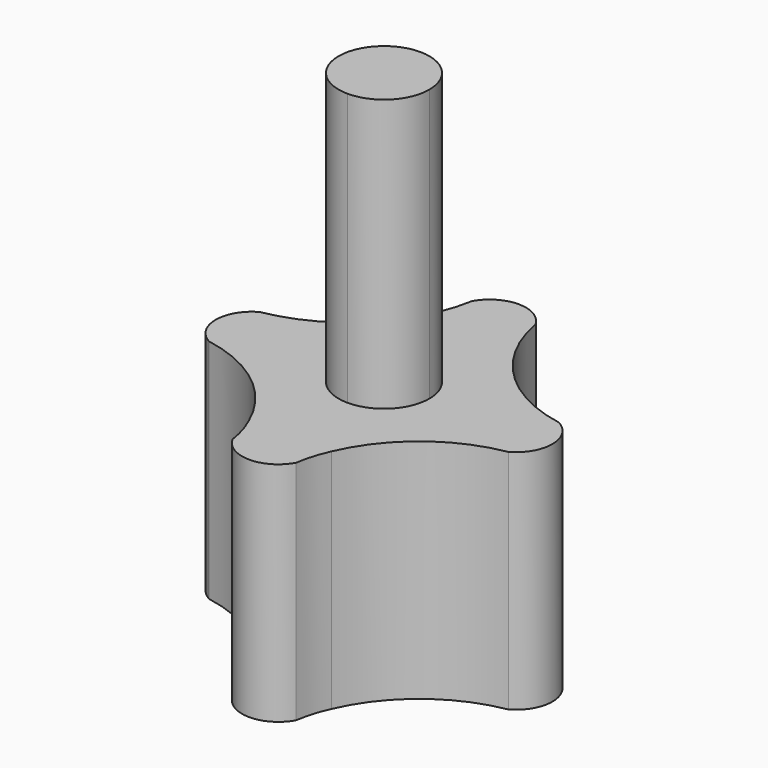
from build123d import *

# Parameters (mm, degrees)
F1_DEPTH = 25
F3_DEPTH = 30


with BuildPart() as f1:
    # F0 (on Top) → F1 (new body)
    with BuildSketch(Plane.XY):
        with BuildLine():
            ThreePointArc((17.2607812761, -2.3833950431), (8.7072023659, 2.0630260466), (4.2607812761, 10.6166049569))
            ThreePointArc((4.2607812761, 10.6166049569), (2.7922872868, 12.1258328499), (0.7607812863, 12.6801132838))
            ThreePointArc((0.7607812863, 12.6801132838), (-1.2707247259, 12.1258328551), (-2.7392187239, 10.6166049569))
            ThreePointArc((-2.7392187239, 10.6166049569), (-7.1856398136, 2.0630260466), (-15.7392187239, -2.3833950431))
            ThreePointArc((-15.7392187239, -2.3833950431), (-17.8027270508, -5.8833950431), (-15.7392187239, -9.3833950431))
            ThreePointArc((-15.7392187239, -9.3833950431), (-8.5748084454, -12.5934844557), (-3.7997873018, -18.8250670599))
            ThreePointArc((-3.7997873018, -18.8250670599), (-3.139452436, -20.565469151), (-2.7392187239, -22.3833950431))
            ThreePointArc((-2.7392187239, -22.3833950431), (0.7607812761, -24.44690337), (4.2607812761, -22.3833950431))
            ThreePointArc((4.2607812761, -22.3833950431), (4.6610149882, -20.565469151), (5.321349854, -18.8250670599))
            ThreePointArc((5.321349854, -18.8250670599), (10.0963709976, -12.5934844557), (17.2607812761, -9.3833950431))
            ThreePointArc((17.2607812761, -9.3833950431), (19.324289603, -5.8833950431), (17.2607812761, -2.3833950431))
        make_face()
    extrude(amount=F1_DEPTH)

    # F2 (on face) → F3 (join)
    with BuildSketch(Plane.XY.offset(25)):
        with BuildLine():
            Line((-4.2392187239, -5.8833950431), (0.7607812761, -5.8833950431))
            Line((0.7607812761, -5.8833950431), (0.7607812761, -0.8833950431))
            ThreePointArc((0.7607812761, -0.8833950431), (-2.7747526298, -2.3478611372), (-4.2392187239, -5.8833950431))
        make_face()
        with BuildLine():
            Line((0.7607812761, -10.8833950431), (0.7607812761, -5.8833950431))
            Line((0.7607812761, -5.8833950431), (-4.2392187239, -5.8833950431))
            ThreePointArc((-4.2392187239, -5.8833950431), (-2.7747526298, -9.4189289491), (0.7607812761, -10.8833950431))
        make_face()
        with BuildLine():
            Line((0.7607812761, -5.8833950431), (5.7607812761, -5.8833950431))
            ThreePointArc((5.7607812761, -5.8833950431), (4.296315182, -2.3478611372), (0.7607812761, -0.8833950431))
            Line((0.7607812761, -0.8833950431), (0.7607812761, -5.8833950431))
        make_face()
        with BuildLine():
            ThreePointArc((0.7607812761, -10.8833950431), (4.296315182, -9.4189289491), (5.7607812761, -5.8833950431))
            Line((5.7607812761, -5.8833950431), (0.7607812761, -5.8833950431))
            Line((0.7607812761, -5.8833950431), (0.7607812761, -10.8833950431))
        make_face()
    extrude(amount=F3_DEPTH)


solid = f1.part
